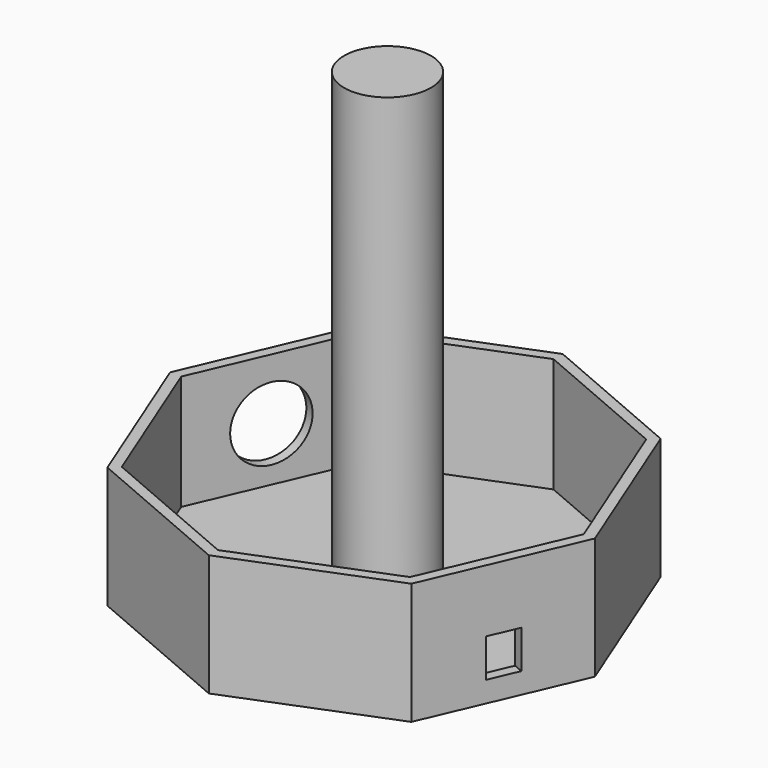
from build123d import *

# Parameters (mm, degrees)
F1_DEPTH = 35
F2_DEPTH = 2
F3_W     = 9
F3_H     = 11
F4_DEPTH = 3
F5_R     = 12.5
F6_DEPTH = 130
F7_R     = 10.5
F8_DEPTH = 3


with BuildPart() as f1:
    # F0 (on Top) → F1 (new body)
    with BuildSketch(Plane.XY):
        Polygon((0.0621920733, 62.8993051266), (-44.1054810761, 45.2816312037), (-63.2062332438, 0.831663731), (-45.2816312037, -44.1054810761), (-0.831663731, -63.2062332438), (43.3360094184, -45.5885593209), (61.7826262379, -2.6608510081), (42.9899003861, 44.4526883072), align=None)
        Polygon((-42.9555200118, -41.8397885551), (-59.9593377004, 0.788941279), (-41.8397885551, 42.9555200118), (0.0194696214, 59.6524095833), (40.6637891941, 42.1869957861), (58.5357306946, -2.6181285562), (41.0703168974, -43.2624481289), (-0.788941279, -59.9593377004), align=None, mode=Mode.SUBTRACT)
    extrude(amount=F1_DEPTH)

    # F0 (on Top) → F2 (join)
    with BuildSketch(Plane.XY):
        Polygon((-41.8397885551, 42.9555200118), (-59.9593377004, 0.788941279), (-42.9555200118, -41.8397885551), (-0.788941279, -59.9593377004), (41.0703168974, -43.2624481289), (58.5357306946, -2.6181285562), (40.6637891941, 42.1869957861), (0.0194696214, 59.6524095833), align=None)
    extrude(amount=F2_DEPTH)

    # F3 (on face) → F4 (cut, through all)
    with BuildSketch(Plane(origin=(53.1176572725, -22.8253756971, 0), x_dir=(0.3948056073, 0.9187646774, 0), z_dir=(0.9187646774, -0.3948056073, 0))):
        with Locations((-1.2642135624, 11.5)):
            Rectangle(F3_W, F3_H)
    extrude(amount=-F4_DEPTH, mode=Mode.SUBTRACT)

    # F5 (on face) → F6 (join)
    with BuildSketch(Plane.XY.offset(2)):
        Circle(F5_R)
    extrude(amount=F6_DEPTH)

    # F7 (on face) → F8 (cut, through all)
    with BuildSketch(Plane(origin=(-53.6558571599, 23.0566474674, 0), x_dir=(-0.3948056073, -0.9187646774, 0), z_dir=(-0.9187646774, 0.3948056073, 0))):
        with Locations((0, 17.5)):
            Circle(F7_R)
    extrude(amount=-F8_DEPTH, mode=Mode.SUBTRACT)


solid = f1.part
